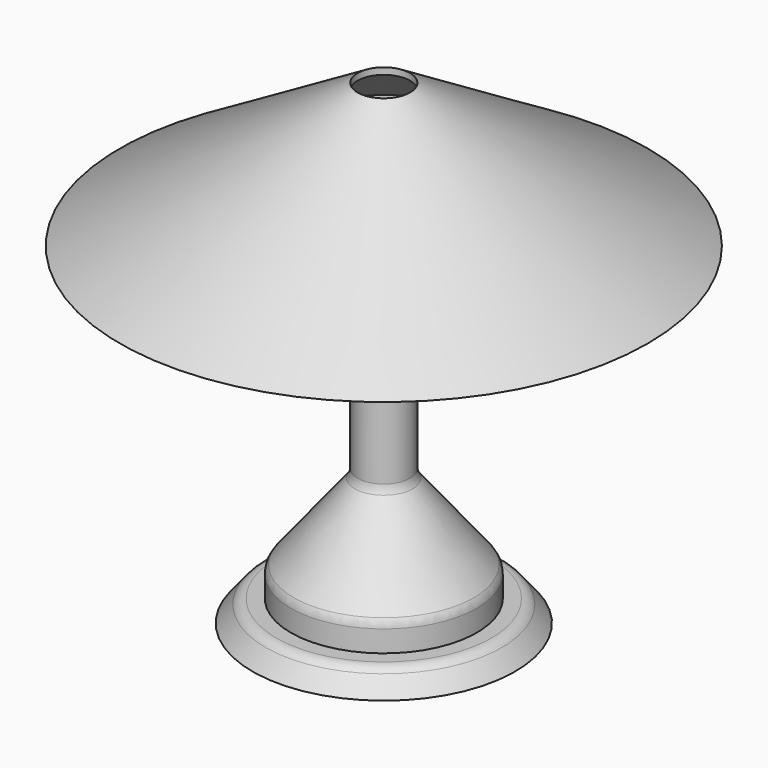
from build123d import *

# Parameters (mm, degrees)
F0_W      = 5
F0_H      = 15
F2_R      = 5
F3_DEPTH  = 98.806
F4_R      = 3.904003
F5_DEPTH  = 18.034
F7_FACE_R = 10
F8_DEPTH  = 55.372
F9_R      = 5.08
F10_W     = 10
F10_H     = 49.749372
F11_DEPTH = 2.794


with BuildPart() as f1:
    # F0 (on Front) → F1 (revolve)
    with BuildSketch(Plane.XZ):
        Polygon((-50, -50), (0, -50), (0, 50), (-5, 50), (-10, 50), (-10, 0), (-35.400108, -31.750134), (-35.400108, -41.731834), (-43.385468, -41.731834), align=None)
        with Locations((-2.5, 57.5)):
            Rectangle(F0_W, F0_H)
    revolve(axis=Axis((0, 0, 57.5), (0, 0, -1)))

    # F2 (on face) → F3 (cut)
    with BuildSketch(Plane(origin=(0, 0, -50), x_dir=(1, 0, 0), z_dir=(0, 0, -1))):
        Circle(F2_R)
    extrude(amount=-F3_DEPTH, mode=Mode.SUBTRACT)

    # F4 (on face) → F5 (cut)
    with BuildSketch(Plane.XY.offset(65)):
        Circle(F4_R)
    extrude(amount=-F5_DEPTH, mode=Mode.SUBTRACT)

    # F9
    f9_edges = [f1.edges().sort_by_distance(p)[0] for p in [
        (35.400108, 0, -31.750134),
        (43.385468, 0, -41.731834),
        (10, 0, 0),
        (-22.700054, 0, -15.875067),
    ]]
    fillet(f9_edges, radius=F9_R)

    # F10 (on face) → F11 (cut)
    with BuildSketch(Plane(origin=(0, 0, -50), x_dir=(1, 0, 0), z_dir=(0, 0, -1))):
        with Locations((0, -24.874686)):
            Rectangle(F10_W, F10_H)
    extrude(amount=-F11_DEPTH, mode=Mode.SUBTRACT)


with BuildPart() as f7:
    # F6 (on Front) → F7 (revolve)
    with BuildSketch(Plane.XZ):
        Polygon((11.21857, 76.385638), (100.516607, 76.385638), (10, 131.074205), (0, 131.074205), (0, 128.542006), (10.000754, 128.542006), (90.807095, 79.720214), (11.21857, 79.633221), align=None)
    revolve(axis=Axis((0, 0, 82.398443), (0, 0, 1)))

    # F7_face (on face) → F8 (cut)
    with BuildSketch(Plane.XY.offset(131.074205)):
        Circle(F7_FACE_R)
    extrude(amount=-F8_DEPTH, mode=Mode.SUBTRACT)


solid = Compound([f1.part, f7.part])
